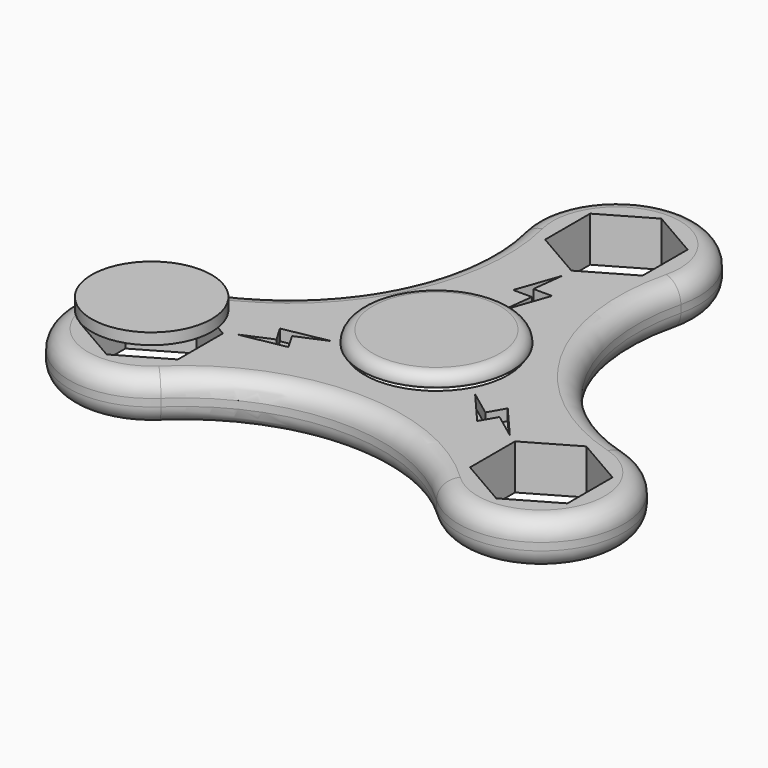
from build123d import *

# Parameters (mm, degrees)
F0_R      = 9.575
F1_DEPTH  = 6
F2_R      = 2.5
F4_DEPTH  = 1.5
F5_R      = 3.075
F6_DEPTH  = 2.8
F7_R      = 5
F8_DEPTH  = 0.6
F9_R      = 10
F10_DEPTH = 1.6
F11_R     = 1.5
F12_SIZE  = 0.5
F13_R     = 3.35
F14_DEPTH = 2.8
F15_R     = 8
F16_DEPTH = 0.9
F17_R     = 8
F17_R_2   = 7
F18_DEPTH = 0.6


with BuildPart() as f1:
    # F0 (on Top) → F1 (new body)
    with BuildSketch(Plane.XY):
        with BuildLine():
            ThreePointArc((29.0631054139, -4.4406837447), (13.4883456639, 7.7875), (10.6858077738, 27.3897294737))
            ThreePointArc((10.6858077738, 27.3897294737), (0, 41), (-10.6858077738, 27.3897294737))
            ThreePointArc((-10.6858077738, 27.3897294737), (-13.4883456639, 7.7875), (-29.0631054139, -4.4406837447))
            ThreePointArc((-29.0631054139, -4.4406837447), (-35.5070415552, -20.5), (-18.3772976401, -22.9490457289))
            ThreePointArc((-18.3772976401, -22.9490457289), (0, -15.575), (18.3772976401, -22.9490457289))
            ThreePointArc((18.3772976401, -22.9490457289), (35.5070415552, -20.5), (29.0631054139, -4.4406837447))
        make_face()
        Polygon((-19.4807621135, -11.2472232503), (-19.4807621135, -18.7527767497), (-25.9807621135, -22.5055534995), (-32.4807621135, -18.7527767497), (-32.4807621135, -11.2472232503), (-25.9807621135, -7.4944465005), align=None, mode=Mode.SUBTRACT)
        Circle(F0_R, mode=Mode.SUBTRACT)
        Polygon((32.4807621135, -11.2472232503), (32.4807621135, -18.7527767497), (25.9807621135, -22.5055534995), (19.4807621135, -18.7527767497), (19.4807621135, -11.2472232503), (25.9807621135, -7.4944465005), align=None, mode=Mode.SUBTRACT)
        Polygon((-6.5, 26.2472232503), (-6.5, 33.7527767497), (0, 37.5055534995), (6.5, 33.7527767497), (6.5, 26.2472232503), (0, 22.4944465005), align=None, mode=Mode.SUBTRACT)
    extrude(amount=F1_DEPTH)

    # F2
    f2_edges = [f1.edges().sort_by_distance(p)[0] for p in [
        (-13.488346, 7.7875, 6),
        (0, -15.575, 0),
    ]]
    fillet(f2_edges, radius=F2_R)

    # F3 (on face) → F4 (cut)
    with BuildSketch(Plane.XY.offset(6)):
        Polygon((-0.5, 16.7847232503), (0, 20.9944465005), (-2, 15.2847232503), (0.5, 15.2847232503), (0, 11.075), (2, 16.7847232503), align=None)
        Polygon((-14.2859967302, -8.825374327), (-18.1817240079, -10.4972232503), (-12.2369586245, -9.3744124327), (-13.4869586245, -7.2093489232), (-9.5912313469, -5.5375), (-15.5359967302, -6.6603108176), align=None)
        Polygon((14.7859967302, -7.9593489232), (18.1817240079, -10.4972232503), (14.2369586245, -5.9103108176), (12.9869586245, -8.075374327), (9.5912313469, -5.5375), (13.5359967302, -10.1244124327), align=None)
    extrude(amount=-F4_DEPTH, mode=Mode.SUBTRACT)


with BuildPart() as f6:
    # F5 (on face) → F6 (new body)
    with BuildSketch(Plane.XY.offset(6)):
        Circle(F5_R)
    extrude(amount=-F6_DEPTH)

    # F7 (on face) → F8 (join)
    with BuildSketch(Plane.XY.offset(6)):
        Circle(F7_R)
    extrude(amount=F8_DEPTH)

    # F9 (on face) → F10 (join)
    with BuildSketch(Plane.XY.offset(6.6)):
        Circle(F9_R)
    extrude(amount=F10_DEPTH)

    # F11
    f11_edges = [f6.edges().sort_by_distance(p)[0] for p in [
        (-10, 0, 8.2),
    ]]
    fillet(f11_edges, radius=F11_R)

    # F12
    f12_edges = [f6.edges().sort_by_distance(p)[0] for p in [
        (-3.075, 0, 3.2),
    ]]
    chamfer(f12_edges, length=F12_SIZE)


with BuildPart() as f14:
    # F13 (on face) → F14 (new body)
    with BuildSketch(Plane.XY.offset(6)):
        with Locations((-25.9807621135, -15)):
            Circle(F13_R)
    extrude(amount=F14_DEPTH)

    # F15 (on face) → F16 (join)
    with BuildSketch(Plane.XY.offset(8.8)):
        with Locations((-25.9807621135, -15)):
            Circle(F15_R)
    extrude(amount=F16_DEPTH)

    # F17 (on face) → F18 (join)
    with BuildSketch(Plane(origin=(0, 0, 8.8), x_dir=(1, 0, 0), z_dir=(0, 0, -1))):
        with Locations((-25.9807621135, 15)):
            Circle(F17_R)
        with Locations((-25.9807621135, 15)):
            Circle(F17_R_2, mode=Mode.SUBTRACT)
    extrude(amount=F18_DEPTH)


solid = Compound([f1.part, f6.part, f14.part])
